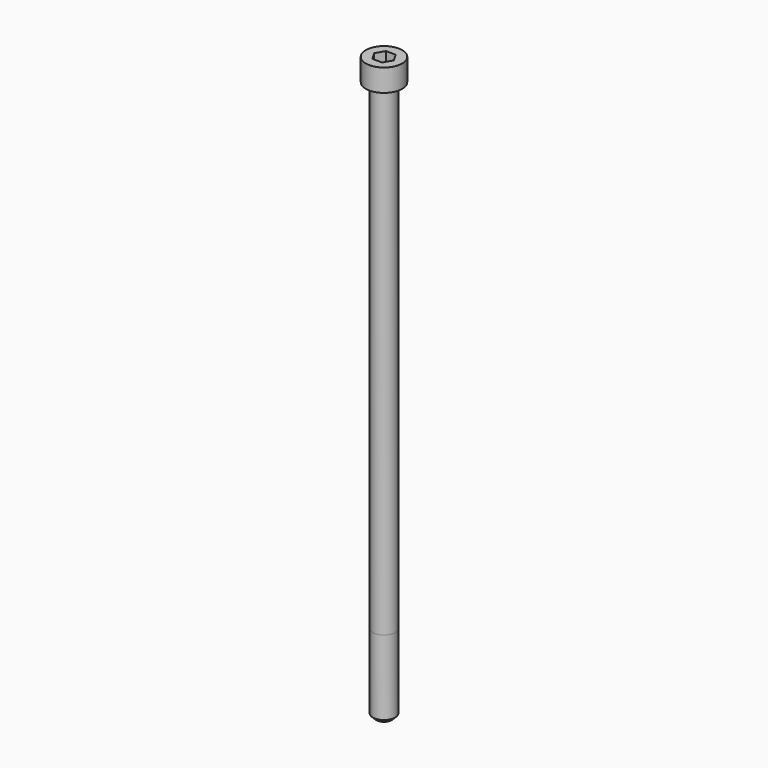
from build123d import *

# Parameters (mm, degrees)
POCKET_DEPTH = 6.06


with BuildPart() as part:
    # Sketch → Revolve (revolve)
    with BuildSketch(Plane.YZ):
        with BuildLine():
            Line((3.999, 0), (6.5, 0))
            Line((6.5, 0), (6.5, 7.97229))
            ThreePointArc((6.5, 7.97229), (6.491884, 7.991884), (6.47229, 8))
            Line((6.47229, 8), (0, 8))
            Line((0, -200), (0, 8))
            Line((2.75, -200), (0, -200))
            Line((4, -198.75), (2.75, -200))
            Line((4, -172), (4, -198.75))
            Line((3.999, 0), (4, -172))
        make_face()
    revolve(axis=Axis((0, 0, 0), (0, 0, 1)))

    # Sketch001 → Pocket (cut)
    with BuildSketch(Plane.XY.offset(8)):
        Polygon((3.498743, 0), (1.749371, 3.03), (-1.749371, 3.03), (-3.498743, 0), (-1.749371, -3.03), (1.749371, -3.03), align=None)
    extrude(amount=-POCKET_DEPTH, mode=Mode.SUBTRACT)


solid = part.part
